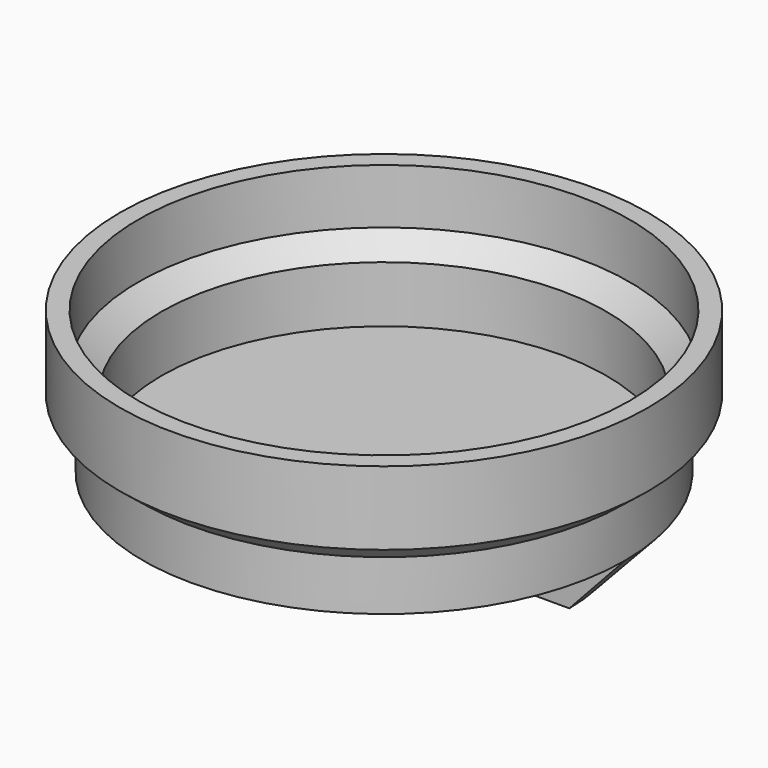
from build123d import *

# Parameters (mm, degrees)
F2_ANGLE = 180


with BuildPart() as f1:
    # F0 (on Front) → F1 (revolve)
    with BuildSketch(Plane.XZ):
        Polygon((14.25, 3.966684), (13.25, 3.966684), (13.25, 1), (12, 0), (12, -3.045681), (0, -3.045681), (0, -3.701337), (12, -3.701337), (13, -3.701337), (13, -1), (14.25, 0), align=None)
        Polygon((14.25, 3.966684), (13.25, 3.966684), (13.25, 1), (12, 0), (12, -3.045681), (0, -3.045681), (0, -3.701337), (12, -3.701337), (13, -3.701337), (13, -1), (14.25, 0), align=None)
        Polygon((14.25, 3.966684), (13.25, 3.966684), (13.25, 1), (12, 0), (12, -3.045681), (0, -3.045681), (0, -3.701337), (12, -3.701337), (13, -3.701337), (13, -1), (14.25, 0), align=None)
    revolve(axis=Axis((0, 0, -3.373509), (0, 0, -1)))

    # F0 (on Front) → F2 (revolve)
    with BuildSketch(Plane.XZ):
        Polygon((10, -6.946398), (13, -3.701337), (12, -3.701337), (0, -3.701337), (0, -6.946398), align=None)
    revolve(axis=Axis((0, 0, 3.279638), (0, 0, 1)), revolution_arc=F2_ANGLE)


solid = f1.part
